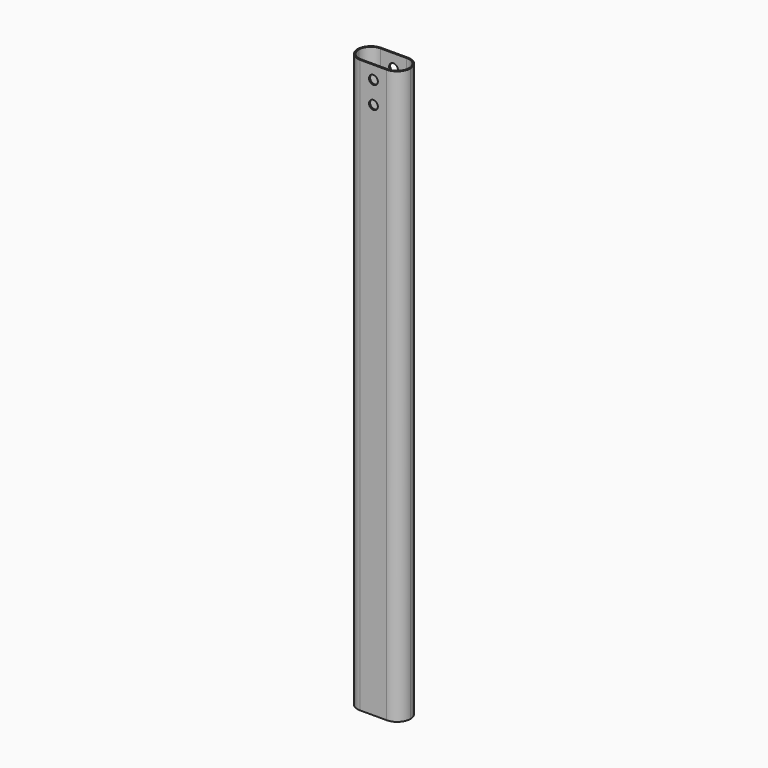
from build123d import *

# Parameters (mm, degrees)
F1_DEPTH = 650
F2_R     = 5
F3_DEPTH = 40


with BuildPart() as f1:
    # F0 (on Top) → F1 (new body)
    with BuildSketch(Plane.XY):
        with BuildLine():
            Line((15, 15), (-15, 15))
            ThreePointArc((-15, 15), (-25.606602, 10.606602), (-30, 0))
            ThreePointArc((-30, 0), (-25.606602, -10.606602), (-15, -15))
            Line((-15, -15), (15, -15))
            ThreePointArc((15, -15), (25.606602, -10.606602), (30, 0))
            ThreePointArc((30, 0), (25.606602, 10.606602), (15, 15))
        make_face()
        with BuildLine():
            ThreePointArc((-28.5, 0), (-24.545942, 9.545942), (-15, 13.5))
            Line((-15, 13.5), (15, 13.5))
            ThreePointArc((15, 13.5), (24.545942, 9.545942), (28.5, 0))
            ThreePointArc((28.5, 0), (24.545942, -9.545942), (15, -13.5))
            Line((15, -13.5), (-15, -13.5))
            ThreePointArc((-15, -13.5), (-24.545942, -9.545942), (-28.5, 0))
        make_face(mode=Mode.SUBTRACT)
    extrude(amount=-F1_DEPTH)

    # F2 (on face) → F3 (cut)
    with BuildSketch(Plane(origin=(0, 15, 0), x_dir=(-1, 0, 0), z_dir=(0, 1, 0))):
        with Locations((0, -15)):
            Circle(F2_R)
        with Locations((0, -40)):
            Circle(F2_R)
    extrude(amount=-F3_DEPTH, mode=Mode.SUBTRACT)


solid = f1.part
